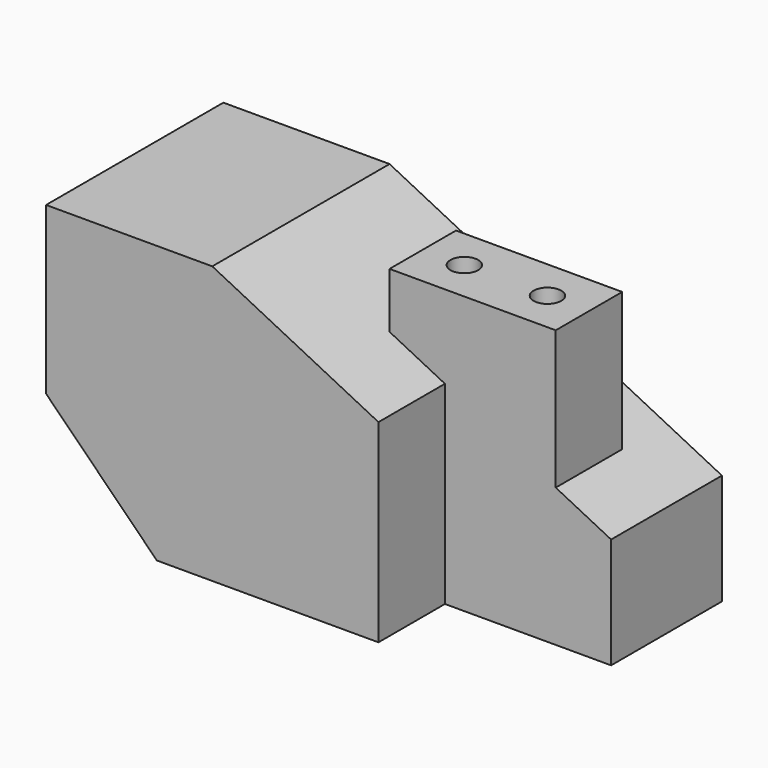
from build123d import *

# Parameters (mm, degrees)
F1_DEPTH = 50.8
F2_DEPTH = 31.75
F4_DEPTH = 19.05
F5_R     = 3.175
F6_DEPTH = 63.501


with BuildPart() as f1:
    # F0 (on Front) → F1 (new body)
    with BuildSketch(Plane.XZ):
        Polygon((0, 38.1), (0, 0), (25.4, -25.4), (76.2, -25.4), (76.2, 19.05), (38.1, 38.1), align=None)
    extrude(amount=F1_DEPTH)

    # F0 (on Front) → F2 (join)
    with BuildSketch(Plane.XZ):
        Polygon((76.2, 19.05), (76.2, -25.4), (114.3, -25.4), (114.3, 0), align=None)
    extrude(amount=F2_DEPTH)

    # F3 (on face) → F4 (join)
    with BuildSketch(Plane.XZ.offset(31.75)):
        Polygon((76.2, 19.05), (76.2, -25.4), (101.6, -25.4), (101.6, 38.1), (63.5, 38.1), (63.5, 25.4), align=None)
    extrude(amount=-F4_DEPTH)

    # F5 (on face) → F6 (cut, through all)
    with BuildSketch(Plane.XY.offset(38.1)):
        with Locations((73.025, -22.225)):
            Circle(F5_R)
        with Locations((92.075, -22.225)):
            Circle(F5_R)
    extrude(amount=-F6_DEPTH, mode=Mode.SUBTRACT)


solid = f1.part
